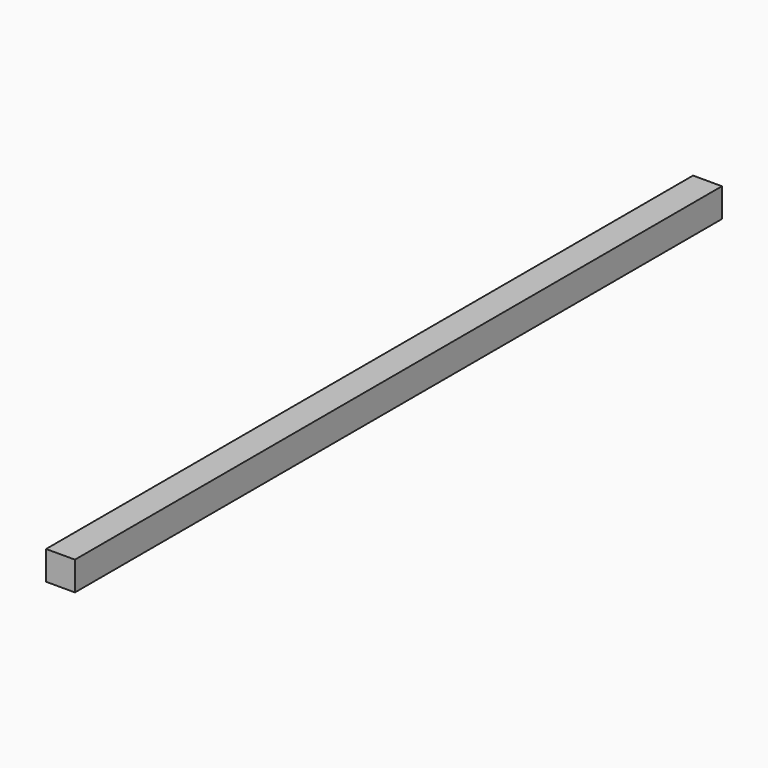
from build123d import *

# Parameters (mm, degrees)
F0_W     = 20
F0_H     = 20
F1_DEPTH = 560


with BuildPart() as f1:
    # F0 (on Front) → F1 (new body)
    with BuildSketch(Plane.XZ):
        with Locations((37.212323, -10)):
            Rectangle(F0_W, F0_H)
        with Locations((37.212323, -10)):
            Rectangle(F0_W, F0_H)
    extrude(amount=-F1_DEPTH)


solid = f1.part
